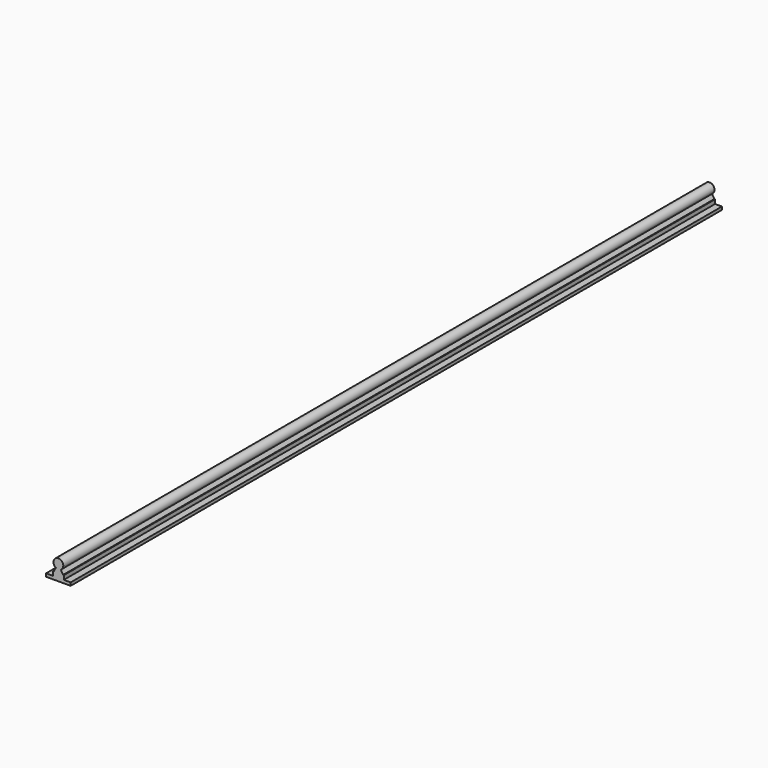
from build123d import *

# Parameters (mm, degrees)
F1_DEPTH = 662.5


with BuildPart() as f1:
    # F0 (on Front) → F1 (new body, symmetric)
    with BuildSketch(Plane.XZ):
        with BuildLine():
            Line((-20, -2.5), (20, -2.5))
            Line((20, -2.5), (20, 2.5))
            Line((20, 2.5), (8.9, 2.5))
            Line((8.9, 2.5), (8.9, 9.2))
            Line((8.9, 9.2), (7.68, 9.2))
            Line((7.68, 9.2), (4.000485, 15.572077))
            ThreePointArc((4.000485, 15.572077), (0, 30.5), (-4.000485, 15.572077))
            Line((-4.000485, 15.572077), (-7.68, 9.2))
            Line((-7.68, 9.2), (-8.9, 9.2))
            Line((-8.9, 9.2), (-8.9, 2.5))
            Line((-8.9, 2.5), (-20, 2.5))
            Line((-20, 2.5), (-20, -2.5))
        make_face()
    extrude(amount=F1_DEPTH, both=True)


solid = f1.part
